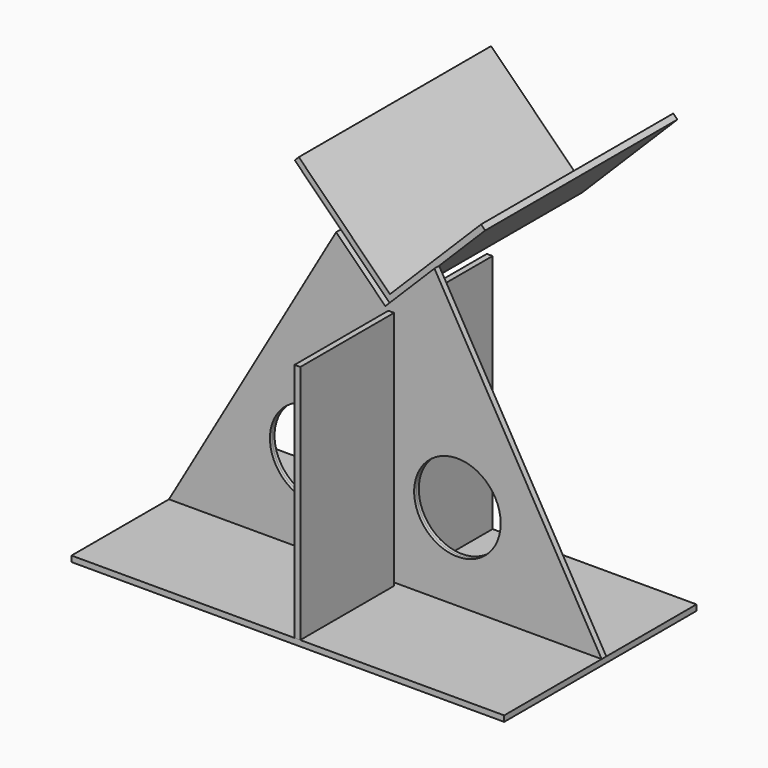
from build123d import *

# Parameters (mm, degrees)
F0_W          = 450
F0_H          = 250
F1_DEPTH      = 6
F2_R          = 45
F3_DEPTH      = 3
F3_DEPTH_BACK = 3
F4_W          = 6
F4_H          = 122
F5_DEPTH      = 250
F8_DEPTH      = 250


with BuildPart() as f1:
    # F0 (on Top) → F1 (new body)
    with BuildSketch(Plane.XY):
        with Locations((-6.250804, -4.707313)):
            Rectangle(F0_W, F0_H)
        with Locations((-6.250804, -4.707313)):
            Rectangle(F0_W, F0_H)
    extrude(amount=F1_DEPTH)


with BuildPart() as f3:
    # F2 (on Front) → F3 (new body, two sides)
    with BuildSketch(Plane.XZ) as f3_sk:
        Polygon((-57.388737, 307.137933), (-231.250804, 6), (218.749196, 6), (44.887129, 307.137933), (-6.250804, 256), align=None)
        with Locations((-81.250804, 96)):
            Circle(F2_R, mode=Mode.SUBTRACT)
        with Locations((68.749196, 96)):
            Circle(F2_R, mode=Mode.SUBTRACT)
    extrude(amount=F3_DEPTH)
    extrude(f3_sk.sketch, amount=-F3_DEPTH_BACK)


with BuildPart() as f5:
    # F4 (on face) → F5 (new body)
    with BuildSketch(Plane.XY.offset(6)):
        with Locations((3.67713, -68.707313)):
            Rectangle(F4_W, F4_H)
    extrude(amount=F5_DEPTH)


with BuildPart() as f6_1:
    # F6: copy of F5
    add(f5.part.moved(Location((0, 128, 0))))


with BuildPart() as f8:
    # F7 (on face) → F8 (new body)
    with BuildSketch(Plane(origin=(0, 3, 0), x_dir=(-1, 0, 0), z_dir=(0, 1, 0))):
        Polygon((-92.744145, 354.994949), (6.250804, 256), (105.245754, 354.994949), (101.003113, 359.23759), (6.250804, 264.485281), (-88.501504, 359.23759), align=None)
    extrude(amount=F8_DEPTH)


solid = Compound([f1.part, f3.part, f5.part, f6_1.part, f8.part])
